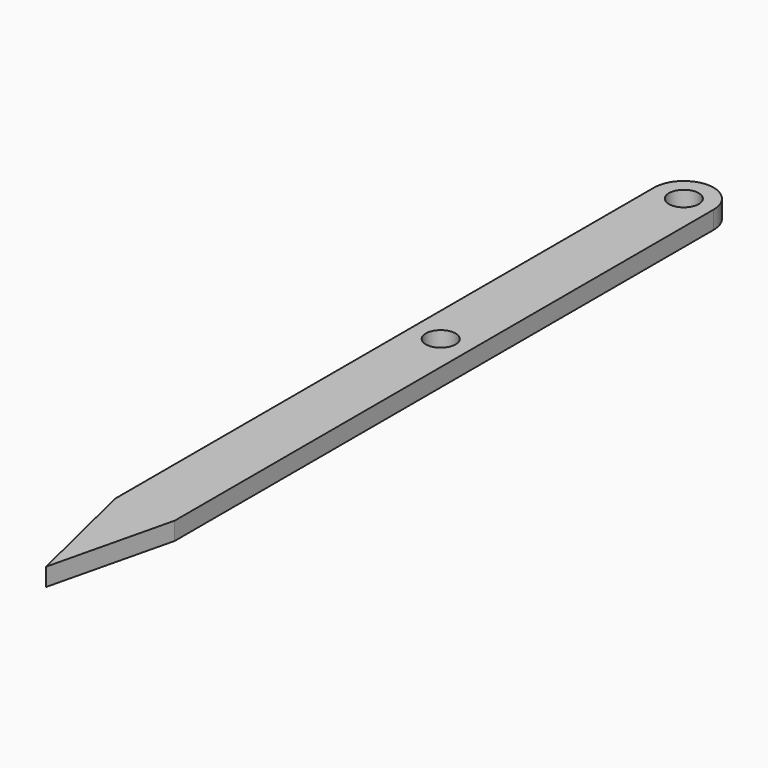
from build123d import *

# Parameters (mm, degrees)
F0_R     = 3.175
F1_DEPTH = 3.81


with BuildPart() as f1:
    # F0 (on Top) → F1 (new body)
    with BuildSketch(Plane.XY):
        with BuildLine():
            Line((6.35, 84.963), (3.175, 84.963))
            ThreePointArc((3.175, 84.963), (0, 81.788), (-3.175, 84.963))
            Line((-3.175, 84.963), (-6.35, 84.963))
            Line((-6.35, 84.963), (-6.35, -58.619514))
            Line((-6.35, -58.619514), (6.35, -58.619514))
            Line((6.35, -58.619514), (6.35, 84.963))
        make_face()
        with Locations((0, 20.193)):
            Circle(F0_R, mode=Mode.SUBTRACT)
        Polygon((0, -84.963), (6.35, -58.619514), (-6.35, -58.619514), align=None)
        with BuildLine():
            ThreePointArc((-3.175, 84.963), (0, 88.138), (3.175, 84.963))
            Line((3.175, 84.963), (6.35, 84.963))
            ThreePointArc((6.35, 84.963), (0, 91.313), (-6.35, 84.963))
            Line((-6.35, 84.963), (-3.175, 84.963))
        make_face()
    extrude(amount=F1_DEPTH)


solid = f1.part
